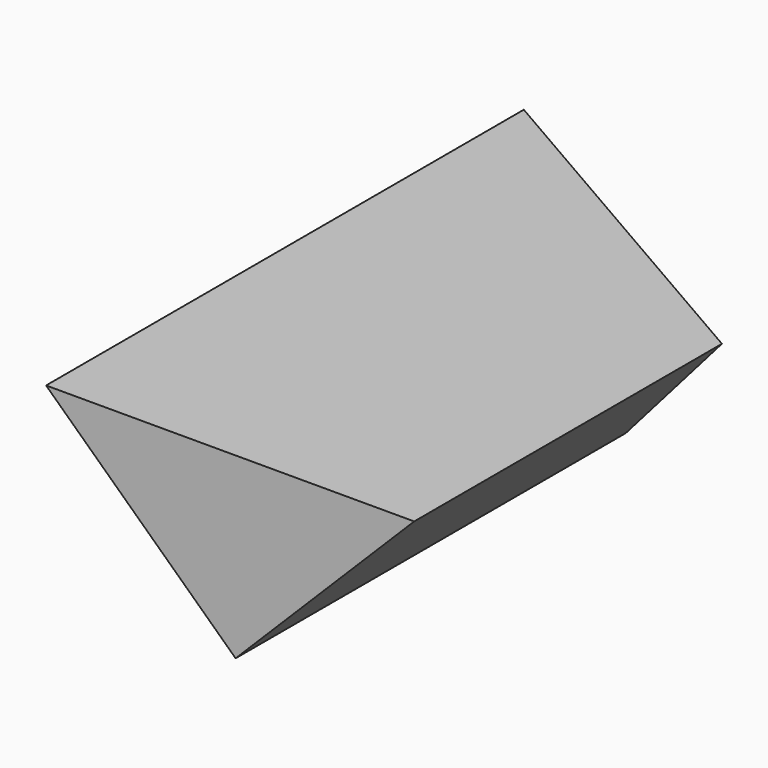
from build123d import *

# Parameters (mm, degrees)
F1_DEPTH = 254
F3_DEPTH = 40.982976


with BuildPart() as f1:
    # F0 (on Front) → F1 (new body)
    with BuildSketch(Plane.XZ):
        Polygon((-43.486329, 40.981976), (0, 0), (40.981976, 40.981976), align=None)
    extrude(amount=F1_DEPTH)

    # F2 (on face) → F3 (cut, through all)
    with BuildSketch(Plane.XY.offset(40.981976)):
        Polygon((-43.486329, 0), (-43.486329, -116.968453), (40.981976, -165.736252), (40.981976, 0), align=None)
    extrude(amount=-F3_DEPTH, mode=Mode.SUBTRACT)


solid = f1.part
